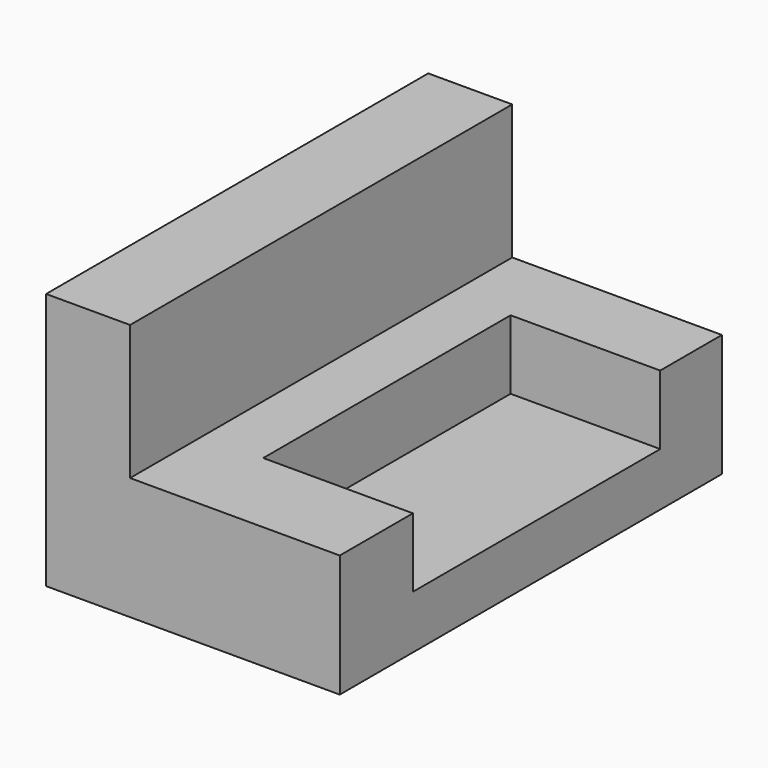
from build123d import *

# Parameters (mm, degrees)
F0_W     = 175.5796000361
F0_H     = 94.5478640497
F1_DEPTH = 107.95
F2_W     = 77.0752280027
F2_H     = 175.5796000361
F3_DEPTH = 49.53
F4_W     = 54.9968387008
F4_H     = 113.6317700148
F5_DEPTH = 25.4


with BuildPart() as f1:
    # F0 (on Right) → F1 (new body)
    with BuildSketch(Plane.YZ):
        with Locations((5.5083744228, 4.4014062732)):
            Rectangle(F0_W, F0_H)
    extrude(amount=F1_DEPTH)

    # F2 (on face) → F3 (cut)
    with BuildSketch(Plane.XY.offset(51.6753382981)):
        with Locations((69.4123859987, 5.5083744228)):
            Rectangle(F2_W, F2_H)
    extrude(amount=-F3_DEPTH, mode=Mode.SUBTRACT)

    # F4 (on face) → F5 (cut)
    with BuildSketch(Plane.XY.offset(2.1453382981)):
        with Locations((80.4515806496, 8.1303864717)):
            Rectangle(F4_W, F4_H)
    extrude(amount=-F5_DEPTH, mode=Mode.SUBTRACT)


solid = f1.part
